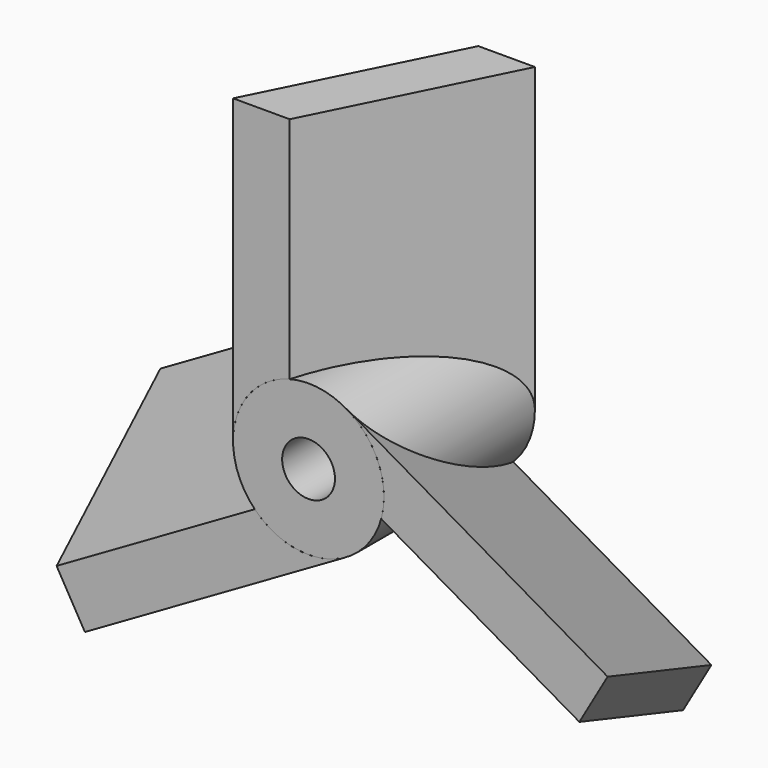
from build123d import *

# Parameters (mm, degrees)
F0_R     = 5.08
F0_R_2   = 1.778
F1_DEPTH = 12.7
F6_COUNT = 3
F6_ANGLE = 240


with BuildPart() as f1:
    # F0 (on Front) → F1 (new body)
    with BuildSketch(Plane.XZ):
        Circle(F0_R)
        Circle(F0_R_2, mode=Mode.SUBTRACT)
    extrude(amount=F1_DEPTH)


with BuildPart() as f4:
    # F3 (on offset) → F4 (new body, up to the next surface of F1)
    with BuildSketch(Plane.XY.offset(20.32)):
        Polygon((-1.27, -12.7), (5.08, 0), (1.27, 0), (-5.08, -12.7), align=None)
    extrude(until=Until.NEXT, target=f1.part, dir=(0, 0, -1))


with BuildPart() as f6_1:
    # F6: instance of F4
    add(f4.part.rotate(Axis((0, 0.347930938, 0), (0, 1, 0)), 1 * F6_ANGLE / (F6_COUNT - 1)))


with BuildPart() as f6_2:
    # F6: instance of F4
    add(f4.part.rotate(Axis((0, 0.347930938, 0), (0, 1, 0)), 2 * F6_ANGLE / (F6_COUNT - 1)))


solid = Compound([f1.part, f4.part, f6_1.part, f6_2.part])
